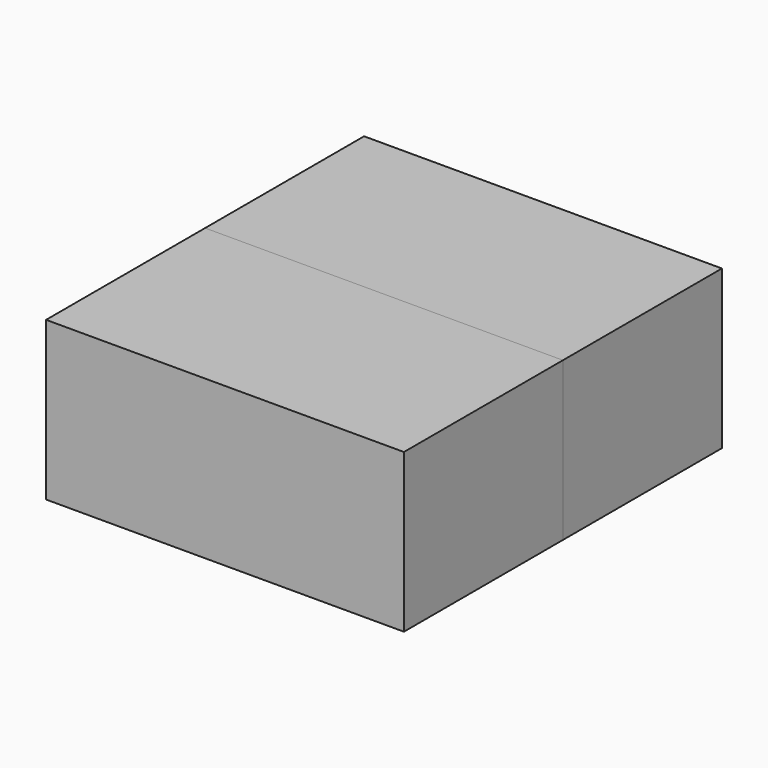
from build123d import *

# Parameters (mm, degrees)
F0_W     = 689.385266
F0_H     = 382.882804
F1_DEPTH = 304.8


with BuildPart() as f1:
    # F0 (on Top) → F1 (new body)
    with BuildSketch(Plane.XY):
        with Locations((-68.624571, -49.668014)):
            Rectangle(F0_W, F0_H)
    extrude(amount=F1_DEPTH)


with BuildPart() as f2_1:
    # F2: instance of F1
    add(f1.part.mirror(Plane(origin=(-68.624571, -241.109416, 152.4), x_dir=(1, 0, 0), z_dir=(0, -1, 0))))


solid = Compound([f1.part, f2_1.part])
